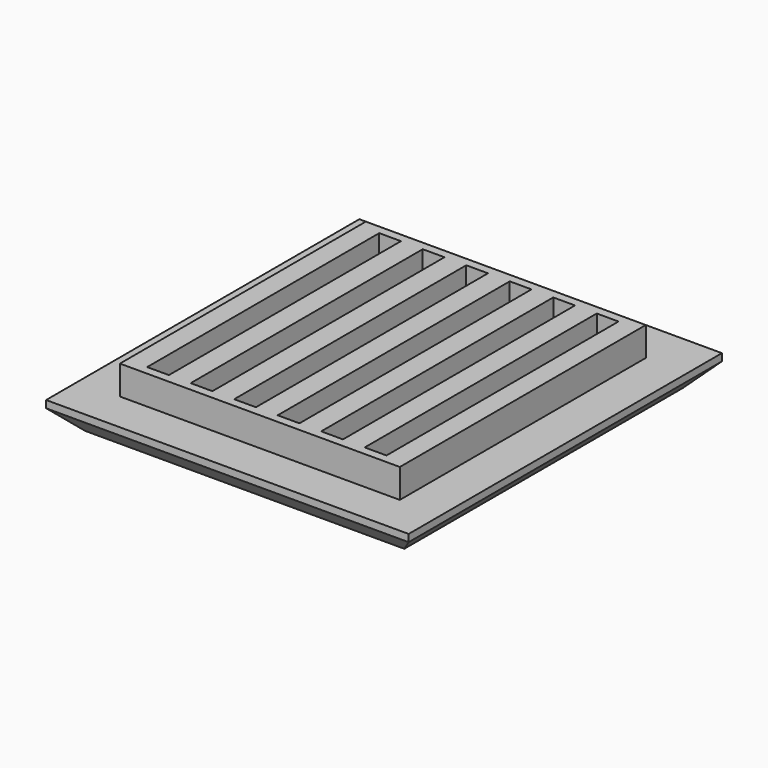
from build123d import *

# Parameters (mm, degrees)
SKETCH_W     = 25
SKETCH_H     = 27
PAD_DEPTH    = 2
SKETCH001_W  = 19.3
SKETCH001_H  = 21.2
PAD001_DEPTH = 2
SKETCH002_W  = 1.5
SKETCH002_H  = 20
POCKET_DEPTH = 5
CHAMFER_SIZE = 1.5


with BuildPart() as part:
    # Sketch → Pad (new body)
    with BuildSketch(Plane.XY):
        with Locations((0, 0.1)):
            Rectangle(SKETCH_W, SKETCH_H)
    extrude(amount=PAD_DEPTH)

    # Sketch001 (on Face6 of Pad) → Pad001 (join)
    with BuildSketch(Plane.XY.offset(2)):
        Rectangle(SKETCH001_W, SKETCH001_H)
    extrude(amount=PAD001_DEPTH)

    # Sketch002 (on Face11 of Pad001) → Pocket (cut)
    with BuildSketch(Plane.XY.offset(4)):
        with Locations((1.5, 0)):
            Rectangle(SKETCH002_W, SKETCH002_H)
        with Locations((4.5, 0)):
            Rectangle(SKETCH002_W, SKETCH002_H)
        with Locations((7.5, 0)):
            Rectangle(SKETCH002_W, SKETCH002_H)
        with Locations((-1.5, 0)):
            Rectangle(SKETCH002_W, SKETCH002_H)
        with Locations((-4.5, 0)):
            Rectangle(SKETCH002_W, SKETCH002_H)
        with Locations((-7.5, 0)):
            Rectangle(SKETCH002_W, SKETCH002_H)
    extrude(amount=-POCKET_DEPTH, mode=Mode.SUBTRACT)

    # Chamfer
    chamfer_edges = [part.edges().sort_by_distance(p)[0] for p in [
        (0, 13.6, 0),
        (12.5, 0.1, 0),
        (-12.5, 0.1, 0),
        (0, -13.4, 0),
    ]]
    chamfer(chamfer_edges, length=CHAMFER_SIZE)


solid = part.part
